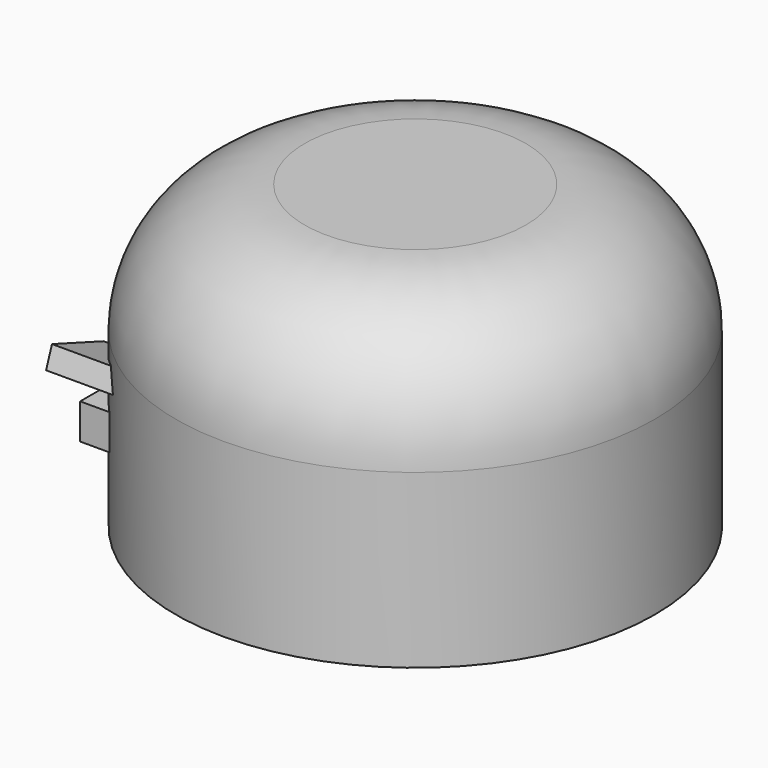
from build123d import *

# Parameters (mm, degrees)
F0_R     = 56.608289
F1_DEPTH = 71.12
F2_R     = 30.48
F3_W     = 8.632271
F3_H     = 8.368614
F4_DEPTH = 48.26
F6_DEPTH = 53.34


with BuildPart() as f1:
    # F0 (on Top) → F1 (new body)
    with BuildSketch(Plane.XY):
        Circle(F0_R)
    extrude(amount=F1_DEPTH)

    # F2
    f2_edges = [f1.edges().sort_by_distance(p)[0] for p in [
        (-56.608289, 0, 71.12),
    ]]
    fillet(f2_edges, radius=F2_R)

    # F3 (on Right) → F4 (join)
    with BuildSketch(Plane.YZ):
        with Locations((34.341916, 21.801914)):
            Rectangle(F3_W, F3_H)
        with Locations((-34.341916, 21.801914)):
            Rectangle(F3_W, F3_H)
    extrude(amount=-F4_DEPTH)

    # F5 (on Right) → F6 (join)
    with BuildSketch(Plane.YZ):
        Polygon((42.371512, 32.300244), (40.627647, 37.047431), (25.372822, 31.443618), (26.978905, 27.071502), align=None)
        Polygon((-26.978905, 27.071502), (-25.372822, 31.443618), (-40.627647, 37.047431), (-42.371512, 32.300244), align=None)
    extrude(amount=-F6_DEPTH)


solid = f1.part
